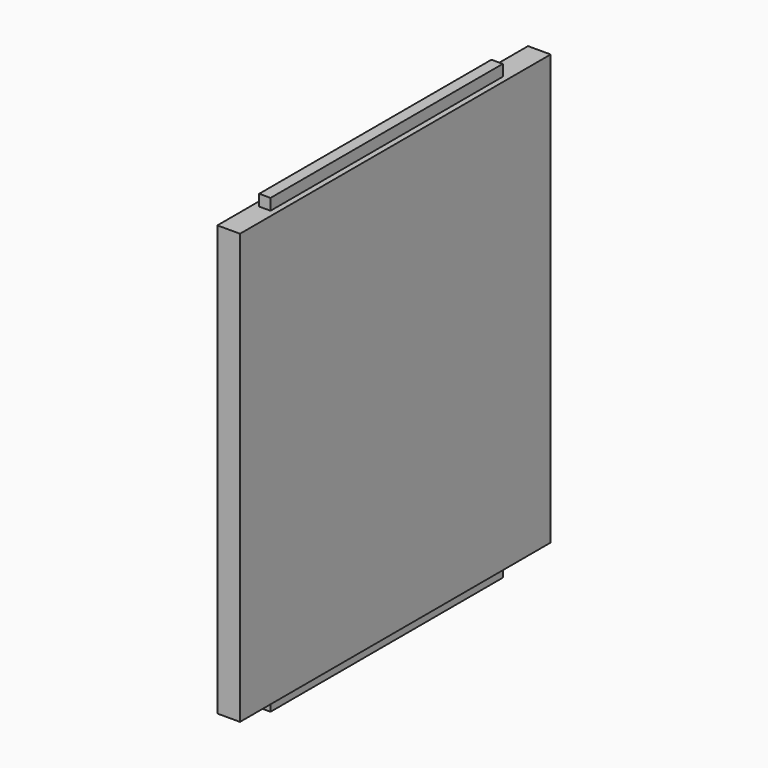
from build123d import *

# Parameters (mm, degrees)
F0_W     = 327.025
F0_H     = 381
F1_DEPTH = 19.05
F2_W     = 4.7625
F2_H     = 9.525
F3_DEPTH = 327.025
F4_W     = 38.1
F4_H     = 9.525
F4_W_2   = 44.45
F5_DEPTH = 9.525
F6_W     = 276.225
F6_H     = 25.4
F7_DEPTH = 9.525


with BuildPart() as f1:
    # F0 (on Right) → F1 (new body)
    with BuildSketch(Plane.YZ):
        with Locations((163.5125, 190.5)):
            Rectangle(F0_W, F0_H)
    extrude(amount=F1_DEPTH)

    # F2 (on Front) → F3 (cut, through all)
    with BuildSketch(Plane.XZ):
        with Locations((2.38125, 376.2375)):
            Rectangle(F2_W, F2_H)
        with Locations((16.66875, 376.2375)):
            Rectangle(F2_W, F2_H)
        with Locations((2.38125, 4.7625)):
            Rectangle(F2_W, F2_H)
        with Locations((16.66875, 4.7625)):
            Rectangle(F2_W, F2_H)
    extrude(amount=-F3_DEPTH, mode=Mode.SUBTRACT)

    # F4 (on face) → F5 (cut, through all)
    with BuildSketch(Plane.YZ.offset(14.2875)):
        with Locations((19.05, 376.2375)):
            Rectangle(F4_W, F4_H)
        with Locations((19.05, 4.7625)):
            Rectangle(F4_W, F4_H)
        with Locations((304.8, 376.2375)):
            Rectangle(F4_W_2, F4_H)
        with Locations((304.8, 4.7625)):
            Rectangle(F4_W_2, F4_H)
    extrude(amount=-F5_DEPTH, mode=Mode.SUBTRACT)

    # F6 (on face) → F7 (cut)
    with BuildSketch(Plane(origin=(0, 0, 0), x_dir=(0, -1, 0), z_dir=(-1, 0, 0))):
        with Locations((-163.5125, 301.625)):
            Rectangle(F6_W, F6_H)
        with Locations((-163.5125, 149.225)):
            Rectangle(F6_W, F6_H)
    extrude(amount=-F7_DEPTH, mode=Mode.SUBTRACT)


solid = f1.part
